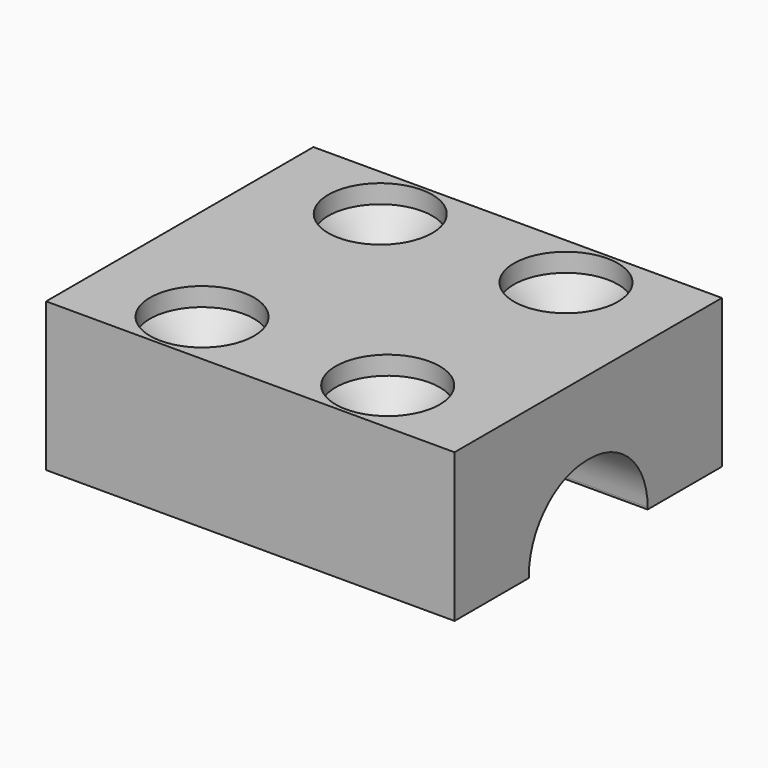
from build123d import *

# Parameters (mm, degrees)
CYLINDER018_R     = 1.5
CYLINDER018_DEPTH = 25
CYLINDER020_R     = 2.8
CYLINDER020_DEPTH = 5
CHAMFER001_SIZE   = 2
CYLINDER016_R     = 1.5
CYLINDER016_DEPTH = 25
CYLINDER017_R     = 1.5
CYLINDER017_DEPTH = 25
CYLINDER021_R     = 2.8
CYLINDER021_DEPTH = 5
CHAMFER002_SIZE   = 2
CYLINDER015_R     = 1.5
CYLINDER015_DEPTH = 25
CYLINDER019_R     = 2.8
CYLINDER019_DEPTH = 5
CHAMFER003_SIZE   = 2
BOX018_W          = 40
BOX018_H          = 8
BOX018_DEPTH      = 5
FILLET014_R       = 3.9
CYLINDER022_R     = 2.8
CYLINDER022_DEPTH = 5
CHAMFER_SIZE      = 2
BOX017_W          = 22
BOX017_H          = 18
BOX017_DEPTH      = 8


with BuildPart() as obj1:
    # Cylinder018 → Cylinder018 (new body)
    with BuildSketch(Plane(origin=(25, 24, 2), x_dir=(1, 0, 0), z_dir=(0, 0, 1))):
        Circle(CYLINDER018_R)
    extrude(amount=CYLINDER018_DEPTH)


with BuildPart() as chamfer001:
    # Cylinder020 → Cylinder020 (new body)
    with BuildSketch(Plane(origin=(25, 36, 18), x_dir=(1, 0, 0), z_dir=(0, 0, 1))):
        Circle(CYLINDER020_R)
    extrude(amount=CYLINDER020_DEPTH)

    # Chamfer001
    chamfer001_edges = [chamfer001.edges().sort_by_distance(p)[0] for p in [
        (22.2, 36, 18),
    ]]
    chamfer(chamfer001_edges, length=CHAMFER001_SIZE)


with BuildPart() as obj2:
    # Cylinder016 → Cylinder016 (new body)
    with BuildSketch(Plane(origin=(25, 36, 2), x_dir=(1, 0, 0), z_dir=(0, 0, 1))):
        Circle(CYLINDER016_R)
    extrude(amount=CYLINDER016_DEPTH)


with BuildPart() as obj3:
    # Cylinder017 → Cylinder017 (new body)
    with BuildSketch(Plane(origin=(35, 36, 2), x_dir=(1, 0, 0), z_dir=(0, 0, 1))):
        Circle(CYLINDER017_R)
    extrude(amount=CYLINDER017_DEPTH)


with BuildPart() as chamfer002:
    # Cylinder021 → Cylinder021 (new body)
    with BuildSketch(Plane(origin=(35, 36, 18), x_dir=(1, 0, 0), z_dir=(0, 0, 1))):
        Circle(CYLINDER021_R)
    extrude(amount=CYLINDER021_DEPTH)

    # Chamfer002
    chamfer002_edges = [chamfer002.edges().sort_by_distance(p)[0] for p in [
        (32.2, 36, 18),
    ]]
    chamfer(chamfer002_edges, length=CHAMFER002_SIZE)


with BuildPart() as obj4:
    # Cylinder015 → Cylinder015 (new body)
    with BuildSketch(Plane(origin=(35, 24, 2), x_dir=(1, 0, 0), z_dir=(0, 0, 1))):
        Circle(CYLINDER015_R)
    extrude(amount=CYLINDER015_DEPTH)


with BuildPart() as chamfer003:
    # Cylinder019 → Cylinder019 (new body)
    with BuildSketch(Plane(origin=(35, 24, 18), x_dir=(1, 0, 0), z_dir=(0, 0, 1))):
        Circle(CYLINDER019_R)
    extrude(amount=CYLINDER019_DEPTH)

    # Chamfer003
    chamfer003_edges = [chamfer003.edges().sort_by_distance(p)[0] for p in [
        (32.2, 24, 18),
    ]]
    chamfer(chamfer003_edges, length=CHAMFER003_SIZE)


with BuildPart() as fillet014:
    # Box018 → Box018 (new body)
    with BuildSketch(Plane(origin=(10, 26, 12), x_dir=(1, 0, 0), z_dir=(0, 0, 1))):
        with Locations((20, 4)):
            Rectangle(BOX018_W, BOX018_H)
    extrude(amount=BOX018_DEPTH)

    # Fillet014
    fillet014_edges = [fillet014.edges().sort_by_distance(p)[0] for p in [
        (30, 26, 17),
        (30, 34, 17),
    ]]
    fillet(fillet014_edges, radius=FILLET014_R)


with BuildPart() as fusion005007:
    # Cylinder022 → Cylinder022 (new body)
    with BuildSketch(Plane(origin=(25, 24, 18), x_dir=(1, 0, 0), z_dir=(0, 0, 1))):
        Circle(CYLINDER022_R)
    extrude(amount=CYLINDER022_DEPTH)

    # Chamfer
    chamfer_edges = [fusion005007.edges().sort_by_distance(p)[0] for p in [
        (22.2, 24, 18),
    ]]
    chamfer(chamfer_edges, length=CHAMFER_SIZE)

    # Fusion005007: union obj1, Chamfer001, obj2, obj3, Chamfer002, obj4, Chamfer003, Fillet014
    add(obj1.part)
    add(chamfer001.part)
    add(obj2.part)
    add(obj3.part)
    add(chamfer002.part)
    add(obj4.part)
    add(chamfer003.part)
    add(fillet014.part)


with BuildPart() as cablecap:
    # Box017 → Box017 (new body)
    with BuildSketch(Plane(origin=(19, 21, 13), x_dir=(1, 0, 0), z_dir=(0, 0, 1))):
        with Locations((11, 9)):
            Rectangle(BOX017_W, BOX017_H)
    extrude(amount=BOX017_DEPTH)

    # Cut004: cut Fusion005007
    add(fusion005007.part, mode=Mode.SUBTRACT)


with BuildPart() as cablecap_1:
    # Cut004 placement: moved
    add(cablecap.part.moved(Location((0, 0, 4))))


solid = cablecap_1.part
